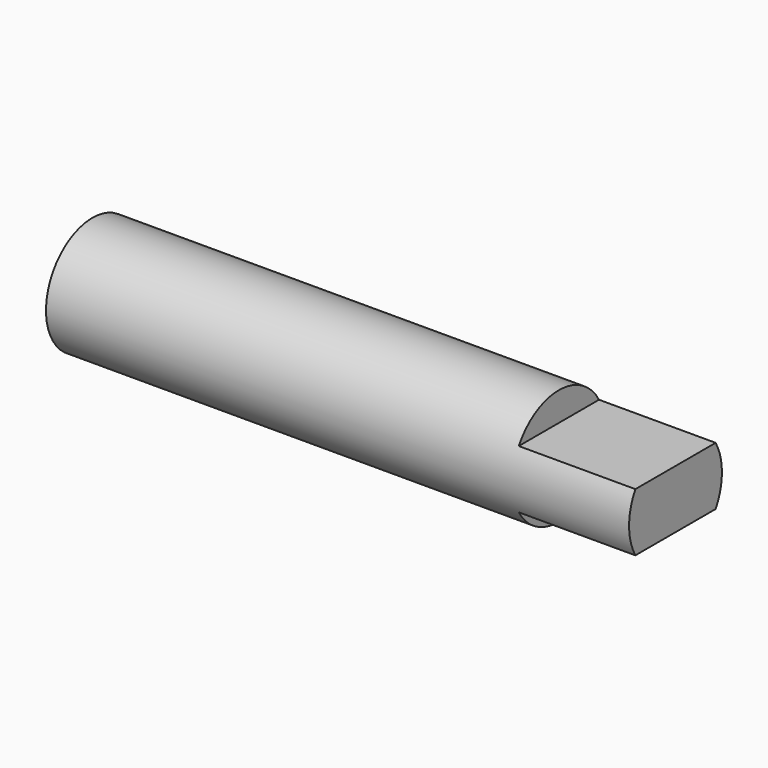
from build123d import *

# Parameters (mm, degrees)
F0_R     = 12.6365
F1_DEPTH = 63.5
F2_W     = 25.4
F2_H     = 6.2865
F3_DEPTH = 12.7
F4_W     = 25.4
F4_H     = 6.2865
F5_DEPTH = 12.7


with BuildPart() as f1:
    # F0 (on Right) → F1 (new body, symmetric)
    with BuildSketch(Plane.YZ):
        Circle(F0_R)
    extrude(amount=F1_DEPTH, both=True)

    # F2 (on Front) → F3 (cut, symmetric)
    with BuildSketch(Plane.XZ):
        with Locations((50.8, 9.49325)):
            Rectangle(F2_W, F2_H)
    extrude(amount=F3_DEPTH, both=True, mode=Mode.SUBTRACT)

    # F4 (on Front) → F5 (cut, symmetric)
    with BuildSketch(Plane.XZ):
        with Locations((50.8, -9.49325)):
            Rectangle(F4_W, F4_H)
    extrude(amount=F5_DEPTH, both=True, mode=Mode.SUBTRACT)

    # F6 (on Front) → F7 (revolve, cut)
    with BuildSketch(Plane.XZ):
        with BuildLine():
            Line((-69.85, -12.7), (-69.85, 12.7))
            ThreePointArc((-69.85, 12.7), (-82.55, 0), (-69.85, -12.7))
        make_face()
    revolve(axis=Axis((-69.85, 0, 0), (0, 0, -1)), mode=Mode.SUBTRACT)


solid = f1.part
